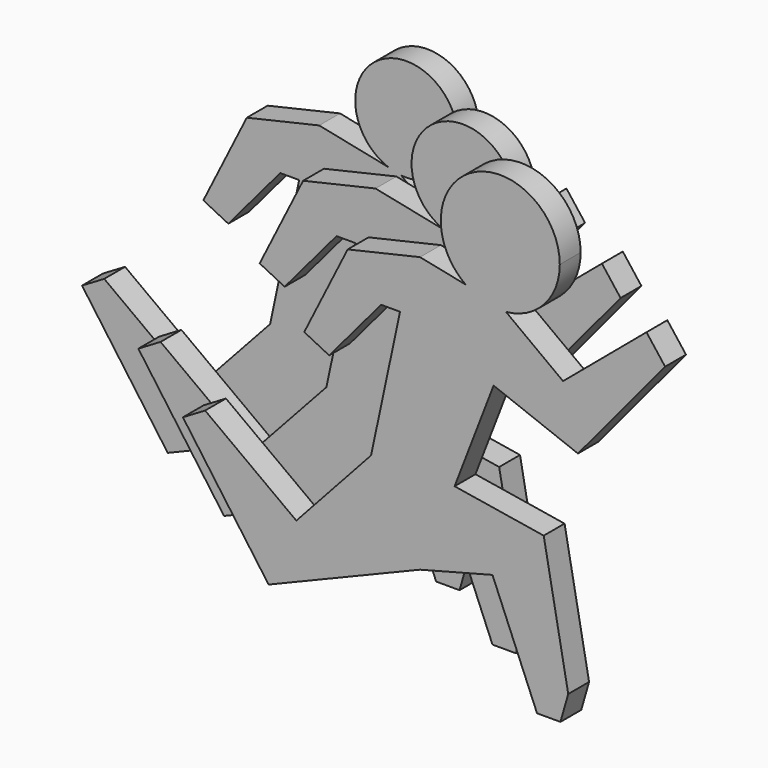
from build123d import *

# Parameters (mm, degrees)
F1_DEPTH = 3
F4_DEPTH = 3
F7_DEPTH = 3


with BuildPart() as f1:
    # F0 (on Front) → F1 (new body)
    with BuildSketch(Plane.XZ):
        with BuildLine():
            ThreePointArc((4.646492, 39.507657), (9.059628, 41.719127), (10.838907, 46.32353))
            ThreePointArc((10.838907, 46.32353), (0.864901, 52.415197), (0, 40.760106))
            ThreePointArc((0, 40.760106), (2.209592, 39.712235), (4.646492, 39.507657))
        make_face()
        with BuildLine():
            ThreePointArc((4.646492, 39.507657), (2.209592, 39.712235), (0, 40.760106))
            Line((0, 40.760106), (-5.238281, 41.836761))
            Line((-5.238281, 41.836761), (-13.570856, 39.913855))
            Line((-13.570856, 39.913855), (-18.570401, 29.914767))
            Line((-18.570401, 29.914767), (-15.698868, 28.479))
            Line((-15.698868, 28.479), (-9.725053, 35.555281))
            Line((-9.725053, 35.555281), (-7.545763, 35.555281))
            Line((-7.545763, 35.555281), (-10.878794, 19.915678))
            Line((-10.878794, 19.915678), (-19.48179, 10.507985))
            Line((-19.48179, 10.507985), (-29.97962, 18.249162))
            Line((-29.97962, 18.249162), (-32.5348, 16.736071))
            Line((-32.5348, 16.736071), (-22.672592, 2.99414))
            Line((-22.672592, 2.99414), (-5.238281, 10.172973))
            Line((-5.238281, 10.172973), (3.094294, 12.352263))
            Line((3.094294, 12.352263), (8.222032, 0))
            Line((8.222032, 0), (10.914096, 0))
            Line((10.914096, 0), (11.81145, 3.122333))
            Line((11.81145, 3.122333), (8.991194, 18.249162))
            Line((8.991194, 18.249162), (-1.264283, 19.915678))
            Line((-1.264283, 19.915678), (3.222488, 31.581283))
            Line((3.222488, 31.581283), (12.929509, 27.847813))
            Line((12.929509, 27.847813), (22.964282, 39.913855))
            Line((22.964282, 39.913855), (20.819625, 42.7064))
            Line((20.819625, 42.7064), (11.215365, 34.626625))
            Line((11.215365, 34.626625), (4.646492, 39.507657))
        make_face()
    extrude(amount=F1_DEPTH)


with BuildPart() as f4:
    # F3 (on offset) → F4 (new body)
    with BuildSketch(Plane.XZ.offset(-5)):
        with BuildLine():
            ThreePointArc((-4.934159, 41.797417), (-5.701197, 41.929952), (-6.444148, 42.162198))
            Line((-6.444148, 42.162198), (-14.366848, 43.790598))
            Line((-14.366848, 43.790598), (-22.699423, 41.867692))
            Line((-22.699423, 41.867692), (-27.698968, 31.868603))
            Line((-27.698968, 31.868603), (-24.827435, 30.432837))
            Line((-24.827435, 30.432837), (-18.85362, 37.509117))
            Line((-18.85362, 37.509117), (-16.67433, 37.509117))
            Line((-16.67433, 37.509117), (-20.016684, 21.825765))
            Line((-20.016684, 21.825765), (-28.610357, 12.461822))
            Line((-28.610357, 12.461822), (-39.108187, 20.202998))
            Line((-39.108187, 20.202998), (-41.663366, 18.689908))
            Line((-41.663366, 18.689908), (-31.801159, 4.947976))
            Line((-31.801159, 4.947976), (-14.366848, 12.12681))
            Line((-14.366848, 12.12681), (-6.034272, 14.306099))
            Line((-6.034272, 14.306099), (-0.906534, 1.953837))
            Line((-0.906534, 1.953837), (1.785529, 1.953837))
            Line((1.785529, 1.953837), (2.682883, 5.07617))
            Line((2.682883, 5.07617), (-0.137373, 20.202998))
            Line((-0.137373, 20.202998), (-10.39285, 21.869514))
            Line((-10.39285, 21.869514), (-5.906079, 33.535119))
            Line((-5.906079, 33.535119), (3.800942, 29.80165))
            Line((3.800942, 29.80165), (13.835715, 41.867692))
            Line((13.835715, 41.867692), (11.691058, 44.660237))
            Line((11.691058, 44.660237), (2.086798, 36.580462))
            Line((2.086798, 36.580462), (-4.934159, 41.797417))
        make_face()
        with BuildLine():
            ThreePointArc((-4.934159, 41.797417), (-0.362744, 43.281094), (1.592578, 47.671521))
            ThreePointArc((1.592578, 47.671521), (-7.653931, 52.54342), (-6.444148, 42.162198))
            ThreePointArc((-6.444148, 42.162198), (-5.701197, 41.929952), (-4.934159, 41.797417))
        make_face()
    extrude(amount=F4_DEPTH)


with BuildPart() as f7:
    # F6 (on offset) → F7 (new body)
    with BuildSketch(Plane.XZ.offset(-10)):
        with BuildLine():
            ThreePointArc((-15.416711, 42.745578), (-10.845296, 44.229255), (-8.889974, 48.619683))
            ThreePointArc((-8.889974, 48.619683), (-18.136484, 53.491582), (-16.9267, 43.11036))
            ThreePointArc((-16.9267, 43.11036), (-16.18375, 42.878113), (-15.416711, 42.745578))
        make_face()
        with BuildLine():
            ThreePointArc((-15.416711, 42.745578), (-16.18375, 42.878113), (-16.9267, 43.11036))
            Line((-16.9267, 43.11036), (-24.8494, 44.738759))
            Line((-24.8494, 44.738759), (-33.181976, 42.815854))
            Line((-33.181976, 42.815854), (-38.18152, 32.816765))
            Line((-38.18152, 32.816765), (-35.309987, 31.380998))
            Line((-35.309987, 31.380998), (-29.336172, 38.457279))
            Line((-29.336172, 38.457279), (-27.156882, 38.457279))
            Line((-27.156882, 38.457279), (-30.499237, 22.773926))
            Line((-30.499237, 22.773926), (-39.092909, 13.409984))
            Line((-39.092909, 13.409984), (-49.590739, 21.15116))
            Line((-49.590739, 21.15116), (-52.145919, 19.638069))
            Line((-52.145919, 19.638069), (-42.283711, 5.896138))
            Line((-42.283711, 5.896138), (-24.8494, 13.074972))
            Line((-24.8494, 13.074972), (-16.516825, 15.254261))
            Line((-16.516825, 15.254261), (-11.389087, 2.901998))
            Line((-11.389087, 2.901998), (-8.697024, 2.901998))
            Line((-8.697024, 2.901998), (-7.799669, 6.024331))
            Line((-7.799669, 6.024331), (-10.619925, 21.15116))
            Line((-10.619925, 21.15116), (-20.875403, 22.817676))
            Line((-20.875403, 22.817676), (-16.388632, 34.483281))
            Line((-16.388632, 34.483281), (-6.68161, 30.749811))
            Line((-6.68161, 30.749811), (3.353163, 42.815854))
            Line((3.353163, 42.815854), (1.208506, 45.608398))
            Line((1.208506, 45.608398), (-8.395755, 37.528624))
            Line((-8.395755, 37.528624), (-15.416711, 42.745578))
        make_face()
    extrude(amount=F7_DEPTH)


solid = Compound([f1.part, f4.part, f7.part])
